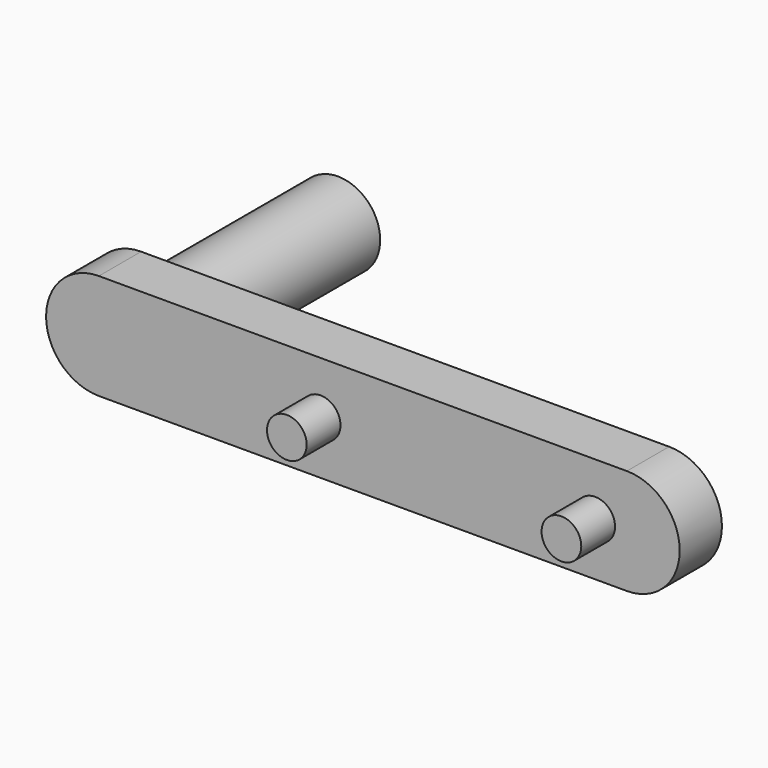
from build123d import *

# Parameters (mm, degrees)
F1_DEPTH = 3.175
F2_R     = 1.1938
F3_DEPTH = 2.54
F4_R     = 2.54
F5_DEPTH = 12.7


with BuildPart() as f1:
    # F0 (on Front) → F1 (new body)
    with BuildSketch(Plane.XZ):
        with BuildLine():
            Line((31.75, 3.175), (0, 3.175))
            ThreePointArc((0, 3.175), (-3.175, 0), (0, -3.175))
            Line((0, -3.175), (31.75, -3.175))
            ThreePointArc((31.75, -3.175), (34.925, 0), (31.75, 3.175))
        make_face()
    extrude(amount=F1_DEPTH)

    # F2 (on face) → F3 (join)
    with BuildSketch(Plane.XZ.offset(3.175)):
        with Locations((13.335, 0)):
            Circle(F2_R)
        with Locations((29.845, 0)):
            Circle(F2_R)
    extrude(amount=F3_DEPTH)

    # F4 (on face) → F5 (join)
    with BuildSketch(Plane(origin=(0, 0, 0), x_dir=(-1, 0, 0), z_dir=(0, 1, 0))):
        with Locations((-1.6764, 0)):
            Circle(F4_R)
    extrude(amount=F5_DEPTH)


solid = f1.part
